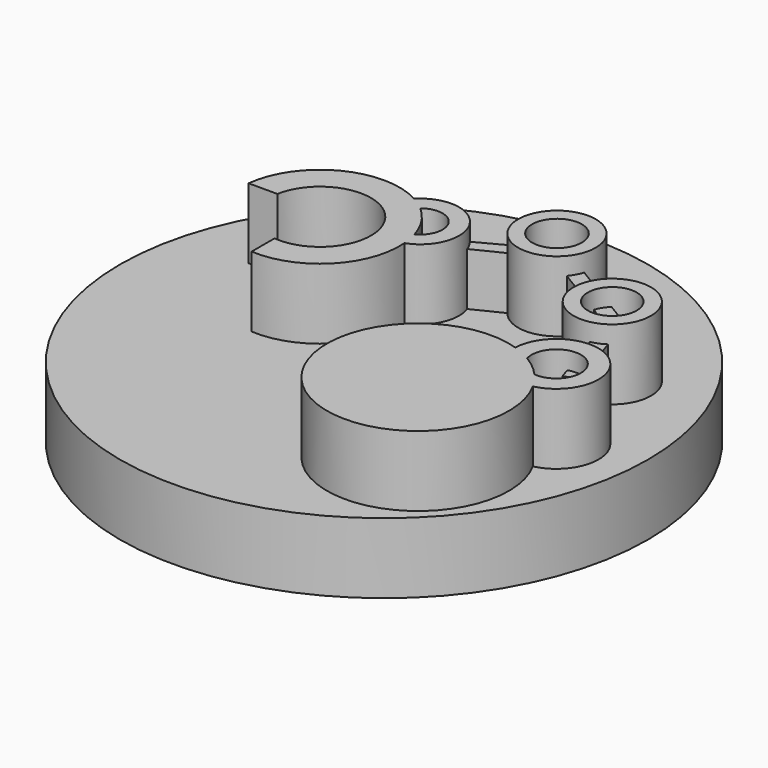
from build123d import *

# Parameters (mm, degrees)
F0_R     = 7.5
F1_DEPTH = 2
F2_R     = 1.1
F2_R_2   = 0.70626
F2_R_3   = 0.694508
F3_DEPTH = 2
F5_DEPTH = 1.5


with BuildPart() as f1:
    # F0 (on Top) → F1 (new body)
    with BuildSketch(Plane.XY):
        Circle(F0_R)
    extrude(amount=F1_DEPTH)

    # F2 (on face) → F3 (join)
    with BuildSketch(Plane.XY.offset(2)):
        with BuildLine():
            ThreePointArc((5.709143, -1.852388), (6.202641, 0.241821), (4.239235, -0.638116))
            ThreePointArc((4.239235, -0.638116), (1.796573, -5.09184), (5.709143, -1.852388))
        make_face()
        with BuildLine():
            ThreePointArc((4.765573, -0.876203), (5.884142, -0.14373), (5.375983, -1.380455))
            ThreePointArc((5.375983, -1.380455), (5.090193, -1.104827), (4.765573, -0.876203))
        make_face(mode=Mode.SUBTRACT)
        with Locations((1.537181, 4.217723)):
            Circle(F2_R)
        with Locations((1.537181, 4.217723)):
            Circle(F2_R_2, mode=Mode.SUBTRACT)
        with Locations((4.536864, 2.431652)):
            Circle(F2_R)
        with Locations((4.536864, 2.431652)):
            Circle(F2_R_3, mode=Mode.SUBTRACT)
        with BuildLine():
            Line((-3.205112, 0.120576), (-3.205112, -0.691418))
            ThreePointArc((-3.205112, -0.691418), (-1.455226, -0.020752), (-0.814583, 1.740348))
            ThreePointArc((-0.814583, 1.740348), (-0.263788, 3.372074), (-1.977704, 3.540587))
            ThreePointArc((-1.977704, 3.540587), (-4.098503, 3.56954), (-5.307508, 1.82686))
            Line((-5.307508, 1.82686), (-4.48911, 1.82686))
            ThreePointArc((-4.48911, 1.82686), (-1.908134, 2.43282), (-3.205112, 0.120576))
        make_face()
        with BuildLine():
            ThreePointArc((-1.583388, 3.265403), (-0.658546, 3.117024), (-0.903388, 2.212922))
            ThreePointArc((-0.903388, 2.212922), (-1.168911, 2.787281), (-1.583388, 3.265403))
        make_face(mode=Mode.SUBTRACT)
    extrude(amount=F3_DEPTH)

    # F4 (on face) → F5 (join)
    with BuildSketch(Plane.XY.offset(2)):
        Polygon((1.142579, 4.2306), (-0.998543, 3.087274), (-0.813259, 2.813969), (1.321921, 3.866934), align=None)
        Polygon((4.455775, 2.74566), (1.968617, 4.249523), (1.769449, 3.881378), (4.239448, 2.387889), align=None)
        Polygon((4.908196, 2.244463), (4.531938, 2.055495), (5.313687, -0.303966), (5.709143, -0.172942), align=None)
    extrude(amount=F5_DEPTH)


solid = f1.part
